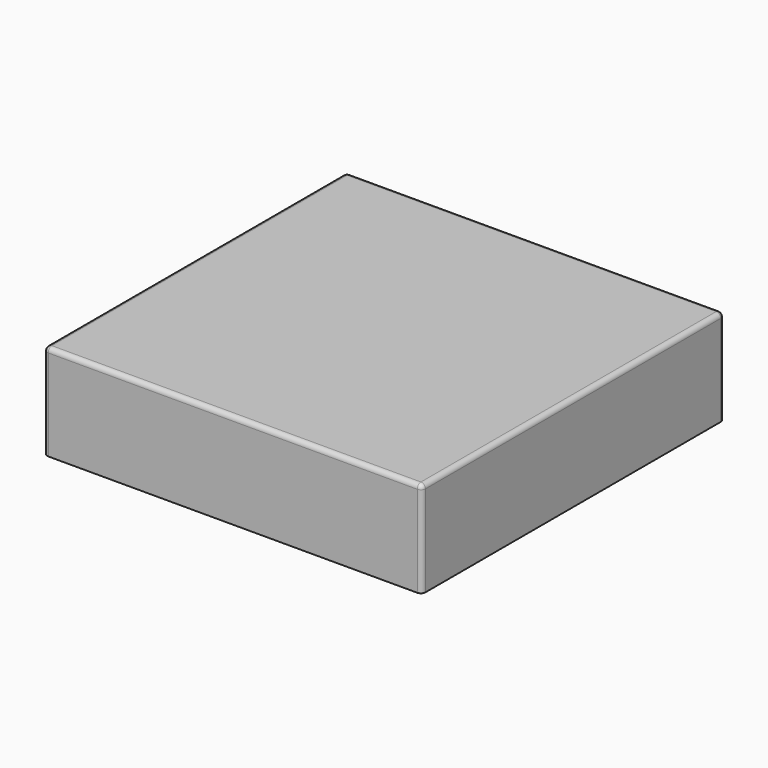
from build123d import *

# Parameters (mm, degrees)
SKETCH_W          = 81
SKETCH_H          = 81
PAD_DEPTH         = 20
POCKET_DEPTH      = 40.501
POCKET_DEPTH_BACK = -40.501
SKETCH001_W       = 83
SKETCH001_H       = 83
PAD001_DEPTH      = 21
FILLET_R          = 1


with BuildPart() as body:
    # Sketch → Pad (new body)
    with BuildSketch(Plane.XY):
        Rectangle(SKETCH_W, SKETCH_H)
    extrude(amount=PAD_DEPTH)

    # Sketch002 → Pocket (cut, two sides)
    with BuildSketch(Plane.YZ) as pocket_sk:
        with BuildLine():
            ThreePointArc((40.5, 4.5), (40, 4), (40.5, 3.5))
            Line((40.5, 4.5), (40.5, 3.5))
        make_face()
        with BuildLine():
            ThreePointArc((-40.5, 3.5), (-40, 4), (-40.5, 4.5))
            Line((-40.5, 3.5), (-40.5, 4.5))
        make_face()
    extrude(amount=-POCKET_DEPTH, mode=Mode.SUBTRACT)
    extrude(pocket_sk.sketch, amount=-POCKET_DEPTH_BACK, mode=Mode.SUBTRACT)


with BuildPart() as body001:
    # Sketch001 → Pad001 (new body)
    with BuildSketch(Plane.XY):
        Rectangle(SKETCH001_W, SKETCH001_H)
    extrude(amount=PAD001_DEPTH)

    # Fillet
    fillet_edges = [body001.edges().sort_by_distance(p)[0] for p in [
        (-41.5, -41.5, 10.5),
        (0, -41.5, 21),
        (41.5, -41.5, 10.5),
        (41.5, 0, 21),
        (41.5, 41.5, 10.5),
        (0, 41.5, 21),
        (-41.5, 0, 21),
        (-41.5, 41.5, 10.5),
    ]]
    fillet(fillet_edges, radius=FILLET_R)

    # Boolean: cut Body
    add(body.part, mode=Mode.SUBTRACT)


solid = body001.part
